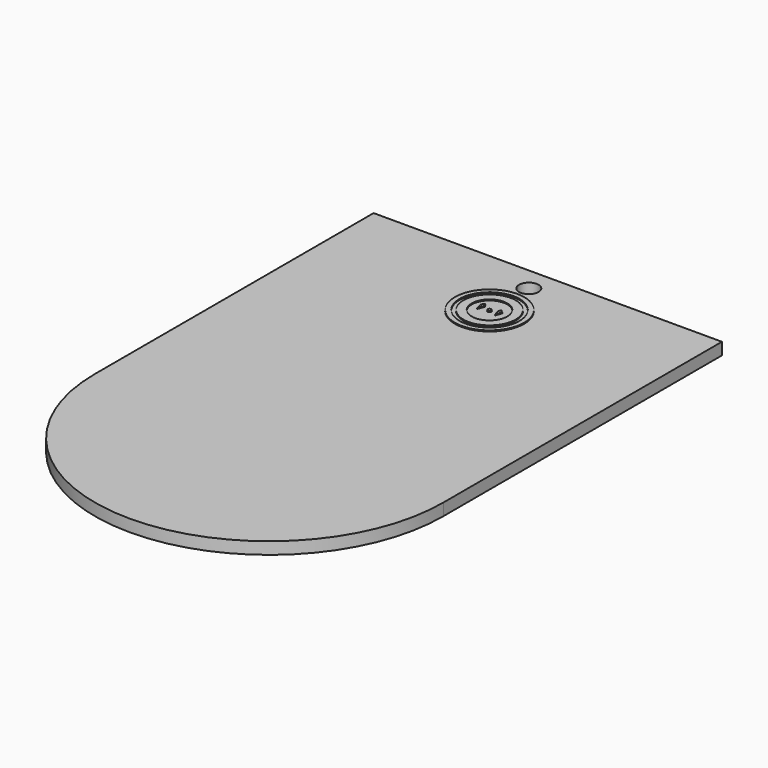
from build123d import *

# Parameters (mm, degrees)
F0_R     = 2.4986506911
F1_DEPTH = 3.0734
F2_R     = 8.8528062314
F2_R_2   = 7.6336843155
F2_R_3   = 6.679620884
F2_R_4   = 4.5453115006
F2_R_5   = 0.5062861641
F3_DEPTH = 0.254


with BuildPart() as f1:
    # F0 (on Top) → F1 (new body)
    with BuildSketch(Plane.XY):
        with BuildLine():
            Line((-44.45, 88.9), (-44.45, 0))
            ThreePointArc((-44.45, 0), (0, -44.45), (44.45, 0))
            Line((44.45, 0), (44.45, 88.9))
            Line((44.45, 88.9), (-44.45, 88.9))
        make_face()
        with Locations((0, 82.8513503075)):
            Circle(F0_R, mode=Mode.SUBTRACT)
    extrude(amount=F1_DEPTH)

    # F2 (on face) → F3 (join)
    with BuildSketch(Plane.XY.offset(3.0734)):
        with Locations((0, 70.3227519989)):
            Circle(F2_R)
        with Locations((0, 70.3227519989)):
            Circle(F2_R_2, mode=Mode.SUBTRACT)
        with Locations((0, 70.3227519989)):
            Circle(F2_R_3)
        with Locations((0, 70.3227519989)):
            Circle(F2_R_4, mode=Mode.SUBTRACT)
        Polygon((-2.223612275, 71.8253105879), (-2.8203756083, 71.1344004551), (-2.4623177014, 69.4515183568), (-1.8788158195, 71.1344004551), align=None)
        Polygon((2.0716317148, 71.6240334723), (1.6487184912, 71.1344004551), (2.0716317148, 69.544352591), (2.6385103986, 71.1344004551), align=None)
        with Locations((0, 70.3227519989)):
            Circle(F2_R_5)
    extrude(amount=F3_DEPTH)


solid = f1.part
